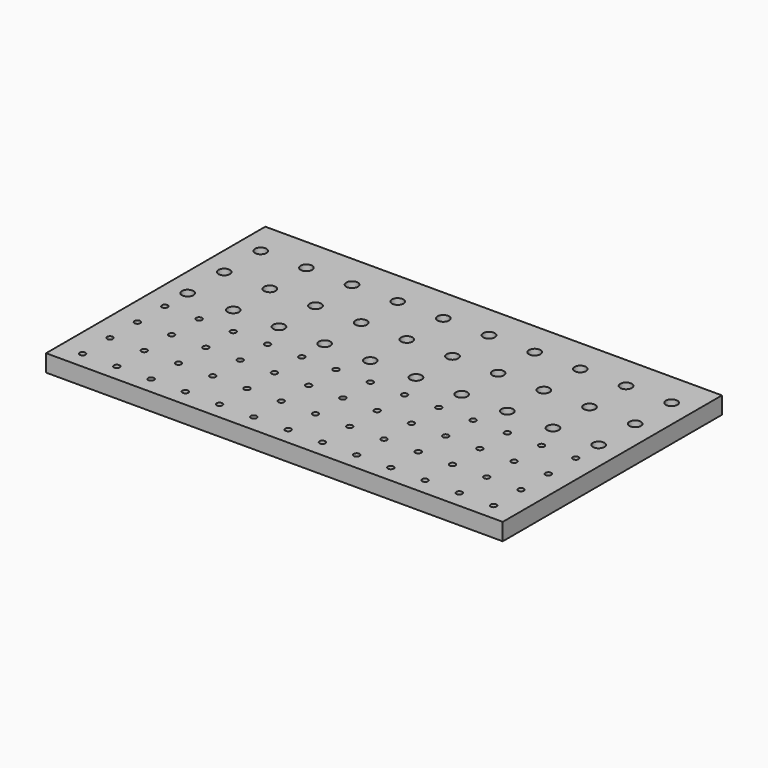
from build123d import *

# Parameters (mm, degrees)
F0_W     = 508
F0_H     = 304.8
F0_R     = 3.2385
F0_R_2   = 6.4135
F1_DEPTH = 19.05


with BuildPart() as f1:
    # F0 (on Top) → F1 (new body)
    with BuildSketch(Plane.XY):
        Rectangle(F0_W, F0_H)
        with Locations((-228.6, -133.35)):
            Circle(F0_R, mode=Mode.SUBTRACT)
        with Locations((-190.5, -133.35)):
            Circle(F0_R, mode=Mode.SUBTRACT)
        with Locations((-152.4, -133.35)):
            Circle(F0_R, mode=Mode.SUBTRACT)
        with Locations((-228.6, -95.25)):
            Circle(F0_R, mode=Mode.SUBTRACT)
        with Locations((-190.5, -95.25)):
            Circle(F0_R, mode=Mode.SUBTRACT)
        with Locations((-152.4, -95.25)):
            Circle(F0_R, mode=Mode.SUBTRACT)
        with Locations((-114.3, -133.35)):
            Circle(F0_R, mode=Mode.SUBTRACT)
        with Locations((-76.2, -133.35)):
            Circle(F0_R, mode=Mode.SUBTRACT)
        with Locations((-38.1, -133.35)):
            Circle(F0_R, mode=Mode.SUBTRACT)
        with Locations((-114.3, -95.25)):
            Circle(F0_R, mode=Mode.SUBTRACT)
        with Locations((-76.2, -95.25)):
            Circle(F0_R, mode=Mode.SUBTRACT)
        with Locations((-38.1, -95.25)):
            Circle(F0_R, mode=Mode.SUBTRACT)
        with Locations((-228.6, -57.15)):
            Circle(F0_R, mode=Mode.SUBTRACT)
        with Locations((-190.5, -57.15)):
            Circle(F0_R, mode=Mode.SUBTRACT)
        with Locations((-152.4, -57.15)):
            Circle(F0_R, mode=Mode.SUBTRACT)
        with Locations((-228.6, -19.05)):
            Circle(F0_R, mode=Mode.SUBTRACT)
        with Locations((-190.5, -19.05)):
            Circle(F0_R, mode=Mode.SUBTRACT)
        with Locations((-152.4, -19.05)):
            Circle(F0_R, mode=Mode.SUBTRACT)
        with Locations((-114.3, -57.15)):
            Circle(F0_R, mode=Mode.SUBTRACT)
        with Locations((-76.2, -57.15)):
            Circle(F0_R, mode=Mode.SUBTRACT)
        with Locations((-38.1, -57.15)):
            Circle(F0_R, mode=Mode.SUBTRACT)
        with Locations((-114.3, -19.05)):
            Circle(F0_R, mode=Mode.SUBTRACT)
        with Locations((-76.2, -19.05)):
            Circle(F0_R, mode=Mode.SUBTRACT)
        with Locations((-38.1, -19.05)):
            Circle(F0_R, mode=Mode.SUBTRACT)
        with Locations((0, -133.35)):
            Circle(F0_R, mode=Mode.SUBTRACT)
        with Locations((38.1, -133.35)):
            Circle(F0_R, mode=Mode.SUBTRACT)
        with Locations((76.2, -133.35)):
            Circle(F0_R, mode=Mode.SUBTRACT)
        with Locations((114.3, -133.35)):
            Circle(F0_R, mode=Mode.SUBTRACT)
        with Locations((0, -95.25)):
            Circle(F0_R, mode=Mode.SUBTRACT)
        with Locations((38.1, -95.25)):
            Circle(F0_R, mode=Mode.SUBTRACT)
        with Locations((76.2, -95.25)):
            Circle(F0_R, mode=Mode.SUBTRACT)
        with Locations((114.3, -95.25)):
            Circle(F0_R, mode=Mode.SUBTRACT)
        with Locations((152.4, -133.35)):
            Circle(F0_R, mode=Mode.SUBTRACT)
        with Locations((190.5, -133.35)):
            Circle(F0_R, mode=Mode.SUBTRACT)
        with Locations((228.6, -133.35)):
            Circle(F0_R, mode=Mode.SUBTRACT)
        with Locations((152.4, -95.25)):
            Circle(F0_R, mode=Mode.SUBTRACT)
        with Locations((190.5, -95.25)):
            Circle(F0_R, mode=Mode.SUBTRACT)
        with Locations((228.6, -95.25)):
            Circle(F0_R, mode=Mode.SUBTRACT)
        with Locations((0, -57.15)):
            Circle(F0_R, mode=Mode.SUBTRACT)
        with Locations((38.1, -57.15)):
            Circle(F0_R, mode=Mode.SUBTRACT)
        with Locations((76.2, -57.15)):
            Circle(F0_R, mode=Mode.SUBTRACT)
        with Locations((114.3, -57.15)):
            Circle(F0_R, mode=Mode.SUBTRACT)
        with Locations((0, -19.05)):
            Circle(F0_R, mode=Mode.SUBTRACT)
        with Locations((38.1, -19.05)):
            Circle(F0_R, mode=Mode.SUBTRACT)
        with Locations((76.2, -19.05)):
            Circle(F0_R, mode=Mode.SUBTRACT)
        with Locations((114.3, -19.05)):
            Circle(F0_R, mode=Mode.SUBTRACT)
        with Locations((152.4, -57.15)):
            Circle(F0_R, mode=Mode.SUBTRACT)
        with Locations((190.5, -57.15)):
            Circle(F0_R, mode=Mode.SUBTRACT)
        with Locations((228.6, -57.15)):
            Circle(F0_R, mode=Mode.SUBTRACT)
        with Locations((152.4, -19.05)):
            Circle(F0_R, mode=Mode.SUBTRACT)
        with Locations((190.5, -19.05)):
            Circle(F0_R, mode=Mode.SUBTRACT)
        with Locations((228.6, -19.05)):
            Circle(F0_R, mode=Mode.SUBTRACT)
        with Locations((-228.6, 12.7)):
            Circle(F0_R_2, mode=Mode.SUBTRACT)
        with Locations((-177.8, 12.7)):
            Circle(F0_R_2, mode=Mode.SUBTRACT)
        with Locations((-228.6, 63.5)):
            Circle(F0_R_2, mode=Mode.SUBTRACT)
        with Locations((-177.8, 63.5)):
            Circle(F0_R_2, mode=Mode.SUBTRACT)
        with Locations((-127, 12.7)):
            Circle(F0_R_2, mode=Mode.SUBTRACT)
        with Locations((-76.2, 12.7)):
            Circle(F0_R_2, mode=Mode.SUBTRACT)
        with Locations((-25.4, 12.7)):
            Circle(F0_R_2, mode=Mode.SUBTRACT)
        with Locations((-127, 63.5)):
            Circle(F0_R_2, mode=Mode.SUBTRACT)
        with Locations((-76.2, 63.5)):
            Circle(F0_R_2, mode=Mode.SUBTRACT)
        with Locations((-25.4, 63.5)):
            Circle(F0_R_2, mode=Mode.SUBTRACT)
        with Locations((-228.6, 114.3)):
            Circle(F0_R_2, mode=Mode.SUBTRACT)
        with Locations((-177.8, 114.3)):
            Circle(F0_R_2, mode=Mode.SUBTRACT)
        with Locations((-127, 114.3)):
            Circle(F0_R_2, mode=Mode.SUBTRACT)
        with Locations((-76.2, 114.3)):
            Circle(F0_R_2, mode=Mode.SUBTRACT)
        with Locations((-25.4, 114.3)):
            Circle(F0_R_2, mode=Mode.SUBTRACT)
        with Locations((25.4, 12.7)):
            Circle(F0_R_2, mode=Mode.SUBTRACT)
        with Locations((76.2, 12.7)):
            Circle(F0_R_2, mode=Mode.SUBTRACT)
        with Locations((25.4, 63.5)):
            Circle(F0_R_2, mode=Mode.SUBTRACT)
        with Locations((76.2, 63.5)):
            Circle(F0_R_2, mode=Mode.SUBTRACT)
        with Locations((127, 12.7)):
            Circle(F0_R_2, mode=Mode.SUBTRACT)
        with Locations((177.8, 12.7)):
            Circle(F0_R_2, mode=Mode.SUBTRACT)
        with Locations((228.6, 12.7)):
            Circle(F0_R_2, mode=Mode.SUBTRACT)
        with Locations((127, 63.5)):
            Circle(F0_R_2, mode=Mode.SUBTRACT)
        with Locations((177.8, 63.5)):
            Circle(F0_R_2, mode=Mode.SUBTRACT)
        with Locations((228.6, 63.5)):
            Circle(F0_R_2, mode=Mode.SUBTRACT)
        with Locations((25.4, 114.3)):
            Circle(F0_R_2, mode=Mode.SUBTRACT)
        with Locations((76.2, 114.3)):
            Circle(F0_R_2, mode=Mode.SUBTRACT)
        with Locations((127, 114.3)):
            Circle(F0_R_2, mode=Mode.SUBTRACT)
        with Locations((177.8, 114.3)):
            Circle(F0_R_2, mode=Mode.SUBTRACT)
        with Locations((228.6, 114.3)):
            Circle(F0_R_2, mode=Mode.SUBTRACT)
    extrude(amount=F1_DEPTH)


solid = f1.part
